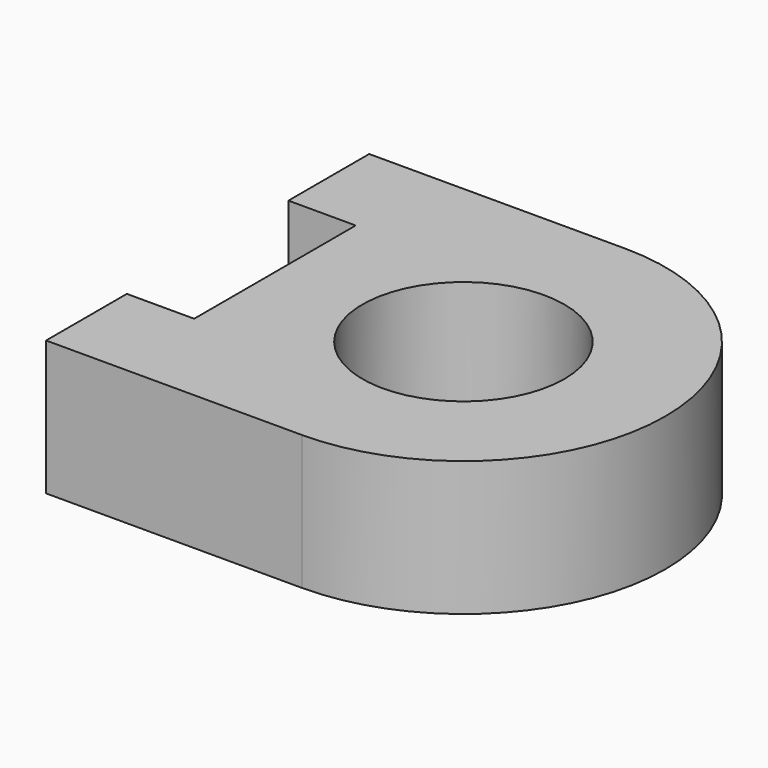
from build123d import *

# Parameters (mm, degrees)
F0_R     = 15
F1_DEPTH = 10


with BuildPart() as f1:
    # F0 (on Top) → F1 (new body, symmetric)
    with BuildSketch(Plane.XY):
        with BuildLine():
            Line((-38, -30), (0, -30))
            ThreePointArc((0, -30), (30, 0), (0, 30))
            Line((0, 30), (-38, 30))
            Line((-38, 30), (-38, 15))
            Line((-38, 15), (-28, 15))
            Line((-28, 15), (-28, -15))
            Line((-28, -15), (-38, -15))
            Line((-38, -15), (-38, -30))
        make_face()
        Circle(F0_R, mode=Mode.SUBTRACT)
    extrude(amount=F1_DEPTH, both=True)


solid = f1.part
